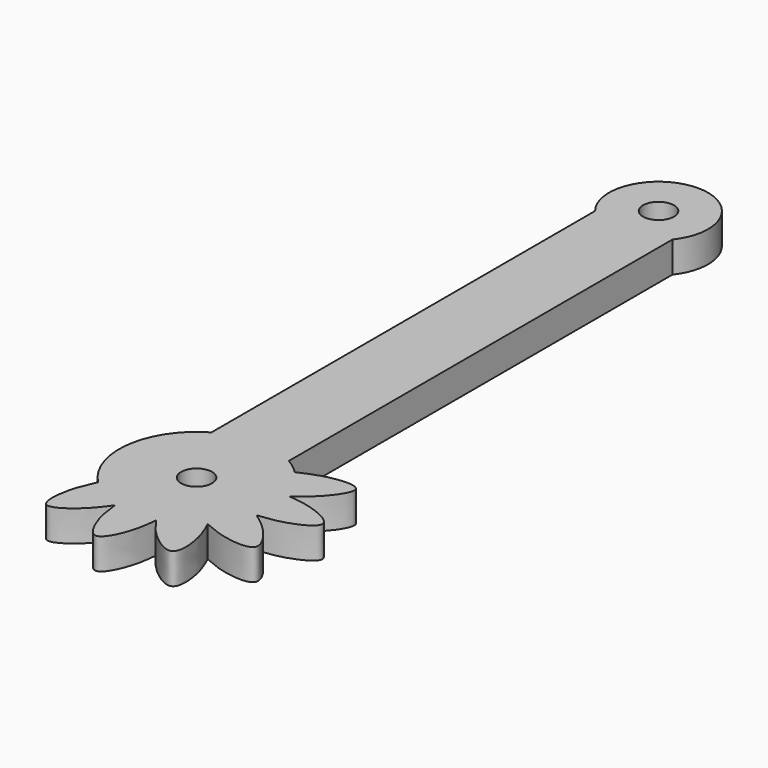
from build123d import *

# Parameters (mm, degrees)
F0_R     = 1.5
F1_DEPTH = 3
F2_COUNT = 5
F2_ANGLE = 120
F3_COUNT = 2
F3_ANGLE = 30
F4_DEPTH = 3


with BuildPart() as f1:
    # F0 (on Top) → F1 (new body)
    with BuildSketch(Plane.XY):
        with BuildLine():
            ThreePointArc((10.9784161474, -5), (11.1817938987, -4.0091776094), (11.25, -3))
            ThreePointArc((11.25, -3), (11.1817938987, -1.9908223906), (10.9784161474, -1))
            ThreePointArc((10.9784161474, -1), (9.6815335073, 1.589870396), (7.5, 3.4951905284))
            ThreePointArc((7.5, 3.4951905284), (3.75, 4.5), (0, 3.4951905284))
            ThreePointArc((0, 3.4951905284), (-0.839870396, -8.9315335073), (10.9784161474, -5))
        make_face()
        with Locations((3.75, -3)):
            Circle(F0_R, mode=Mode.SUBTRACT)
        with BuildLine():
            ThreePointArc((10.9784161474, -1), (11.1817938987, -1.9908223906), (11.25, -3))
            Line((11.25, -3), (15.95, -3))
            add(Edge.make_bspline(
                [(10.9784161474, -1), (11.8350186835, -1.0881504393), (13.5497251572, -1.2295209379), (15.95, -2.4153828237), (15.95, -3)],
                knots=[0, 0, 0, 0, 0.2535053688, 0.5, 0.5, 0.5, 0.5], degree=3))
        make_face()
        with BuildLine():
            Line((15.95, -3), (11.25, -3))
            Line((11.25, -3), (11.25, -4.9723310697))
            add(Edge.make_bspline(
                [(15.95, -3), (15.95, -3.5846171763), (13.6780446635, -4.7070824839), (12.0203156214, -4.8937489666), (11.25, -4.9723310697)],
                knots=[0.5, 0.5, 0.5, 0.5, 0.7464946312, 0.9732698306, 0.9732698306, 0.9732698306, 0.9732698306], degree=3))
        make_face()
        with BuildLine():
            Line((11.25, -4.9723310697), (11.25, -3))
            ThreePointArc((11.25, -3), (11.1817938987, -4.0091776094), (10.9784161474, -5))
            add(Edge.make_bspline(
                [(11.25, -4.9723310697), (11.1592022977, -4.9815936034), (11.0687382223, -4.9907052218), (10.9784161474, -5)],
                knots=[0.9732698306, 0.9732698306, 0.9732698306, 0.9732698306, 1, 1, 1, 1], degree=3))
        make_face()
    extrude(amount=F1_DEPTH)


with BuildPart() as f2_1:
    # F2: instance of F1
    add(f1.part.rotate(Axis((3.75, -3, 3), (0, 0, -1)), 1 * F2_ANGLE / (F2_COUNT - 1)))


with BuildPart() as f2_2:
    # F2: instance of F1
    add(f1.part.rotate(Axis((3.75, -3, 3), (0, 0, -1)), 2 * F2_ANGLE / (F2_COUNT - 1)))


with BuildPart() as f2_3:
    # F2: instance of F1
    add(f1.part.rotate(Axis((3.75, -3, 3), (0, 0, -1)), 3 * F2_ANGLE / (F2_COUNT - 1)))


with BuildPart() as f2_4:
    # F2: instance of F1
    add(f1.part.rotate(Axis((3.75, -3, 3), (0, 0, -1)), 4 * F2_ANGLE / (F2_COUNT - 1)))


with BuildPart() as f3_1:
    # F3: instance of F1
    add(f1.part.rotate(Axis((3.75, -3, 0), (0, 0, 1)), 1 * F3_ANGLE / (F3_COUNT - 1)))


with BuildPart() as f1_1:
    add(f1.part)

    add(f2_1.part)  # F4 merges F2_1

    add(f2_2.part)  # F4 merges F2_2

    add(f2_3.part)  # F4 merges F2_3

    add(f2_4.part)  # F4 merges F2_4

    add(f3_1.part)  # F4 merges F3_1
    # F0 (on Top) → F4 (join)
    with BuildSketch(Plane.XY):
        with BuildLine():
            ThreePointArc((0, 3.4951905284), (3.75, 4.5), (7.5, 3.4951905284))
            Line((7.5, 3.4951905284), (7.5, 50))
            ThreePointArc((7.5, 50), (3.75, 57.8023431781), (0, 50))
            Line((0, 50), (0, 3.4951905284))
        make_face()
        with Locations((3.75, 53)):
            Circle(F0_R, mode=Mode.SUBTRACT)
    extrude(amount=F4_DEPTH)


solid = f1_1.part
